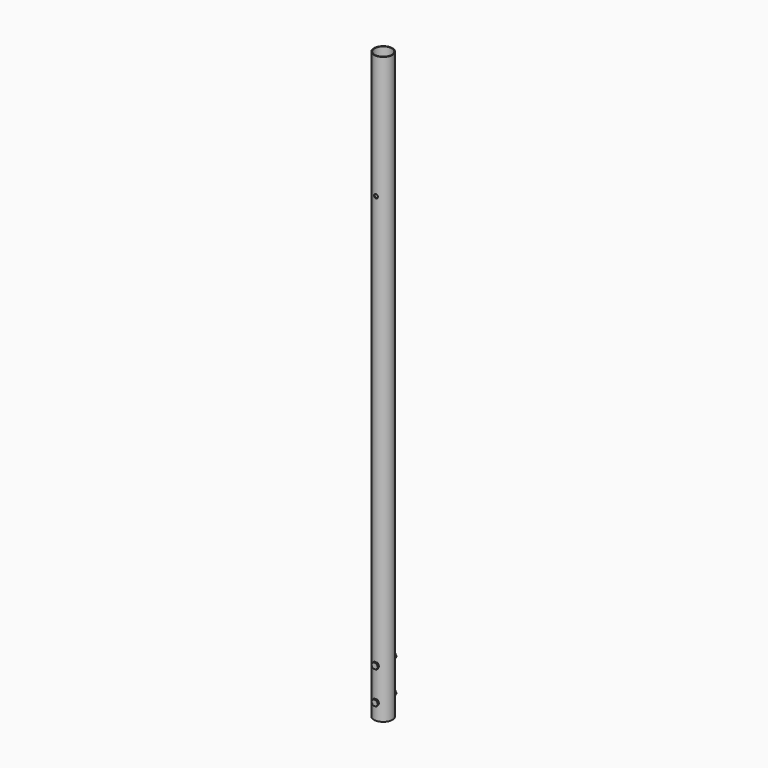
from build123d import *

# Parameters (mm, degrees)
F0_R          = 28.5
F0_R_2        = 26.5
F1_DEPTH      = 1800
F2_R          = 5.25
F2_R_2        = 6
F3_DEPTH      = 28.501
F3_DEPTH_BACK = 28.501
F6_DEPTH      = 5
F7_R          = 5
F8_DEPTH      = 70
F11_DEPTH     = 5
F14_DEPTH     = 5


with BuildPart() as f1:
    # F0 (on Top) → F1 (new body)
    with BuildSketch(Plane.XY):
        Circle(F0_R)
        Circle(F0_R_2, mode=Mode.SUBTRACT)
    extrude(amount=F1_DEPTH)

    # F2 (on Front) → F3 (cut, two sides)
    with BuildSketch(Plane.XZ) as f3_sk:
        with Locations((0, 50)):
            Circle(F2_R)
        with Locations((0, 150)):
            Circle(F2_R)
        with Locations((0, 1420)):
            Circle(F2_R_2)
    extrude(amount=-F3_DEPTH, mode=Mode.SUBTRACT)
    extrude(f3_sk.sketch, amount=F3_DEPTH_BACK, mode=Mode.SUBTRACT)

    # F5 (on offset) → F6 (join)
    with BuildSketch(Plane.XZ.offset(28)):
        Polygon((-5, 41.3397459622), (5, 41.3397459622), (10, 50), (5, 58.6602540378), (-5, 58.6602540378), (-10, 50), align=None)
        Polygon((-5, 141.3397459622), (5, 141.3397459622), (10, 150), (5, 158.6602540378), (-5, 158.6602540378), (-10, 150), align=None)
    extrude(amount=F6_DEPTH)

    # F7 (on offset) → F8 (join)
    with BuildSketch(Plane.XZ.offset(28)):
        with Locations((0, 150)):
            Circle(F7_R)
        with Locations((0, 50)):
            Circle(F7_R)
    extrude(amount=-F8_DEPTH)

    # F10 (on offset) → F11 (join)
    with BuildSketch(Plane.XZ.offset(-28)):
        Polygon((-5, 141.3397459622), (5, 141.3397459622), (10, 150), (5, 158.6602540378), (-5, 158.6602540378), (-10, 150), align=None)
        Polygon((-5, 41.3397459622), (5, 41.3397459622), (10, 50), (5, 58.6602540378), (-5, 58.6602540378), (-10, 50), align=None)
    extrude(amount=-F11_DEPTH)

    # F13 (on offset) → F14 (join)
    with BuildSketch(Plane(origin=(0, 34, 0), x_dir=(-1, 0, 0), z_dir=(0, 1, 0))):
        Polygon((-10, 150), (-5, 141.3397459622), (5, 141.3397459622), (10, 150), (5, 158.6602540378), (-5, 158.6602540378), align=None)
        Polygon((-10, 50), (-5, 41.3397459622), (5, 41.3397459622), (10, 50), (5, 58.6602540378), (-5, 58.6602540378), align=None)
    extrude(amount=F14_DEPTH)


solid = f1.part
